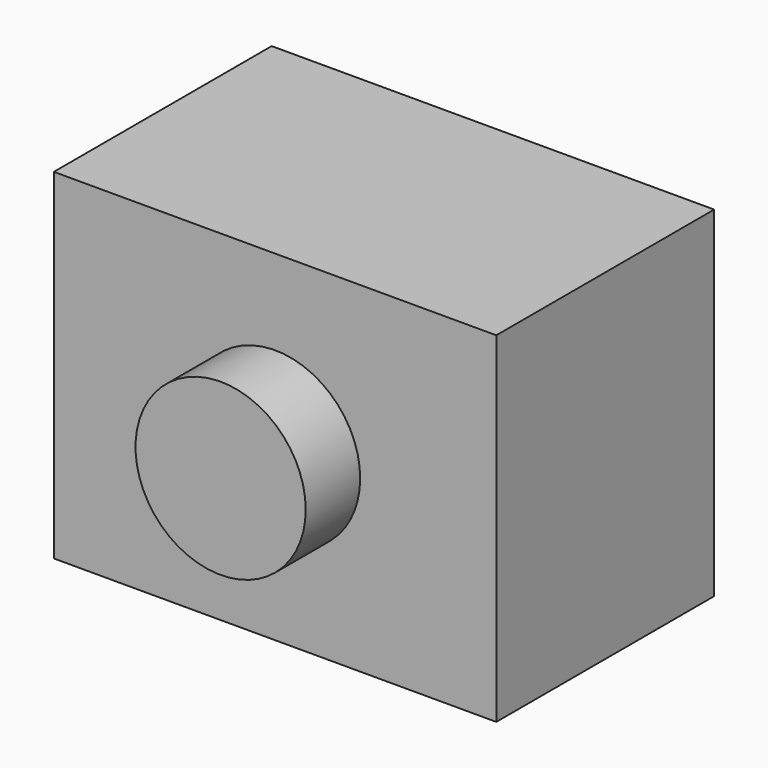
from build123d import *

# Parameters (mm, degrees)
F0_W     = 65
F0_H     = 50
F1_DEPTH = 20
F2_R     = 12.5
F3_DEPTH = 10
F4_D     = 11
F4_DEPTH = 60
F4_TIP   = 3.3047334047
F6_D     = 6.8
F6_DEPTH = 23.75
F6_TIP   = 2.0429261047
F7_D     = 8
F7_DEPTH = 20
F7_TIP   = 2.4034424761


with BuildPart() as f1:
    # F0 (on Front) → F1 (new body, symmetric)
    with BuildSketch(Plane.XZ):
        Rectangle(F0_W, F0_H)
    extrude(amount=F1_DEPTH, both=True)

    # F2 (on face) → F3 (join)
    with BuildSketch(Plane.XZ.offset(20)):
        Circle(F2_R)
    extrude(amount=F3_DEPTH)

    # F4 (one way)
    with BuildSketch(Plane.XZ):
        with Locations((0, 0)):
            Circle(F4_D / 2)
    extrude(amount=-F4_DEPTH, mode=Mode.SUBTRACT)
    with Locations(Plane.XZ):
        with Locations((0, 0)):
            with Locations((0, 0, -(F4_DEPTH + F4_TIP / 2))):  # 118° drill point
                Cone(0, F4_D / 2, F4_TIP, mode=Mode.SUBTRACT)

    # F6
    with Locations(Plane(origin=(0, 20, 0), x_dir=(-1, 0, 0), z_dir=(0, 1, 0))):
        with Locations((-22.5, -17.5), (22.5, 17.5)):
            Hole(F6_D / 2, depth=F6_DEPTH)
            with Locations((0, 0, -(F6_DEPTH + F6_TIP / 2))):  # 118° drill point
                Cone(0, F6_D / 2, F6_TIP, mode=Mode.SUBTRACT)

    # F7
    with Locations(Plane(origin=(0, 20, 0), x_dir=(-1, 0, 0), z_dir=(0, 1, 0))):
        with Locations((-22.5, 17.5), (22.5, -17.5)):
            Hole(F7_D / 2, depth=F7_DEPTH)
            with Locations((0, 0, -(F7_DEPTH + F7_TIP / 2))):  # 118° drill point
                Cone(0, F7_D / 2, F7_TIP, mode=Mode.SUBTRACT)


solid = f1.part
